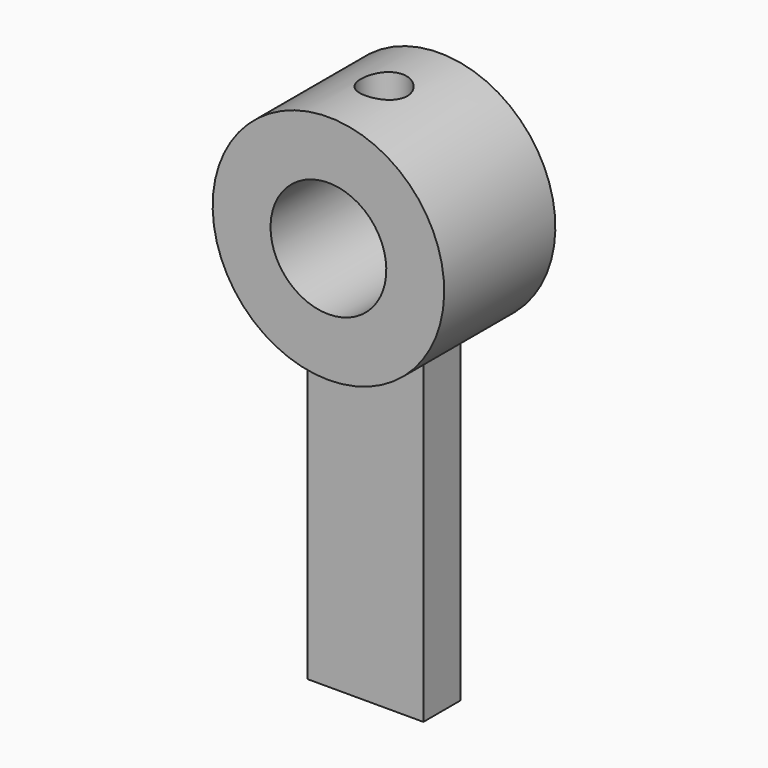
from build123d import *

# Parameters (mm, degrees)
CYLINDER019_R             = 1
CYLINDER019_DEPTH         = 5
CYLINDER018_R             = 2.5
CYLINDER018_DEPTH         = 8
CYLINDER017_R             = 5
CYLINDER017_DEPTH         = 6
BOX002_W                  = 18
BOX002_H                  = 5
BOX002_DEPTH              = 2
CUT002002_PITCH_ANGLE     = 90
CUT002002_PLACEMENT_ANGLE = -90


with BuildPart() as cylinder019:
    # Cylinder019 → Cylinder019 (new body)
    with BuildSketch(Plane(origin=(0, 0, 3), x_dir=(0, 0, 1), z_dir=(-1, 0, 0))):
        Circle(CYLINDER019_R)
    extrude(amount=CYLINDER019_DEPTH)


with BuildPart() as fusion009:
    # Cylinder018 → Cylinder018 (new body)
    with BuildSketch(Plane.XY):
        Circle(CYLINDER018_R)
    extrude(amount=CYLINDER018_DEPTH)

    # Fusion009: union Cylinder019
    add(cylinder019.part)


with BuildPart() as cylinder017:
    # Cylinder017 → Cylinder017 (new body)
    with BuildSketch(Plane.XY):
        Circle(CYLINDER017_R)
    extrude(amount=CYLINDER017_DEPTH)


with BuildPart() as obj1:
    # Box002 → Box002 (new body)
    with BuildSketch(Plane(origin=(0, -2.5, 2), x_dir=(1, 0, 0), z_dir=(0, 0, 1))):
        with Locations((9, 2.5)):
            Rectangle(BOX002_W, BOX002_H)
    extrude(amount=BOX002_DEPTH)

    # Fusion008: union Cylinder017
    add(cylinder017.part)

    # Cut002002: cut Fusion009
    add(fusion009.part, mode=Mode.SUBTRACT)


with BuildPart() as obj1_1:
    # Cut002002 pitch: moved
    add(obj1.part.rotate(Axis((0, 0, 0), (0, 1, 0)), CUT002002_PITCH_ANGLE))


with BuildPart() as obj1_2:
    # Cut002002 placement: moved
    add(obj1_1.part.moved(Location((0, 37, 0))).rotate(Axis((0, 37, 0), (0, 0, 1)), CUT002002_PLACEMENT_ANGLE))


solid = obj1_2.part
